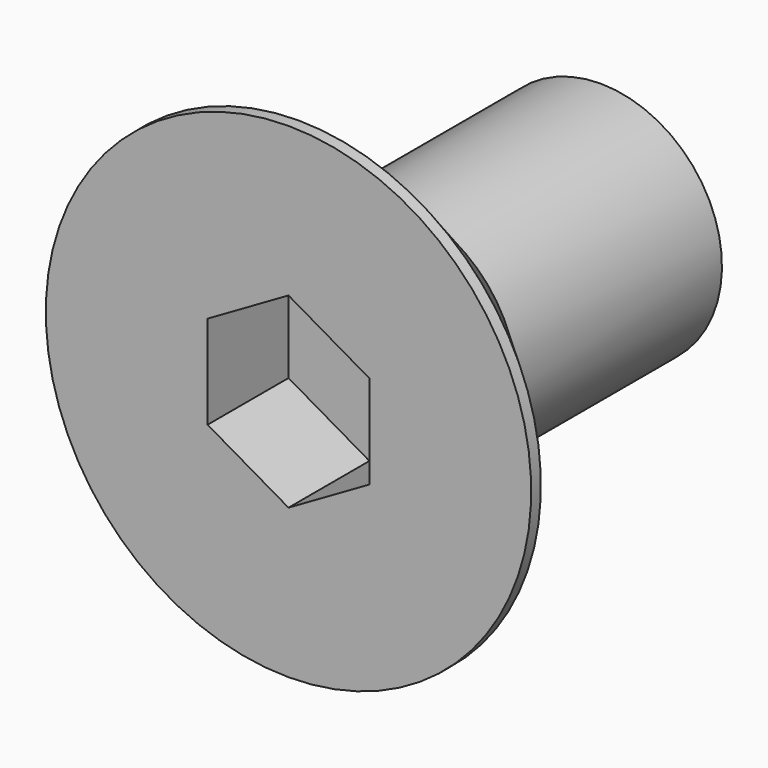
from build123d import *

# Parameters (mm, degrees)
POCKET_DEPTH = 2.5


with BuildPart() as part:
    # Sketch → Revolution (revolve)
    with BuildSketch(Plane.YZ):
        Polygon((0, 0), (0, 6), (0.3, 6), (3.3, 3), (9.64493, 3), (10, 2.385), (10, 0), align=None)
    revolve(axis=Axis((0, 0, 0), (0, 1, 0)))

    # Sketch001 → Pocket (cut)
    with BuildSketch(Plane(origin=(0, 0, 0), x_dir=(0, 0, -1), z_dir=(0, -1, 0))):
        Polygon((1.154701, 2), (-1.154701, 2), (-2.309401, 0), (-1.154701, -2), (1.154701, -2), (2.309401, 0), align=None)
    extrude(amount=-POCKET_DEPTH, mode=Mode.SUBTRACT)


solid = part.part
